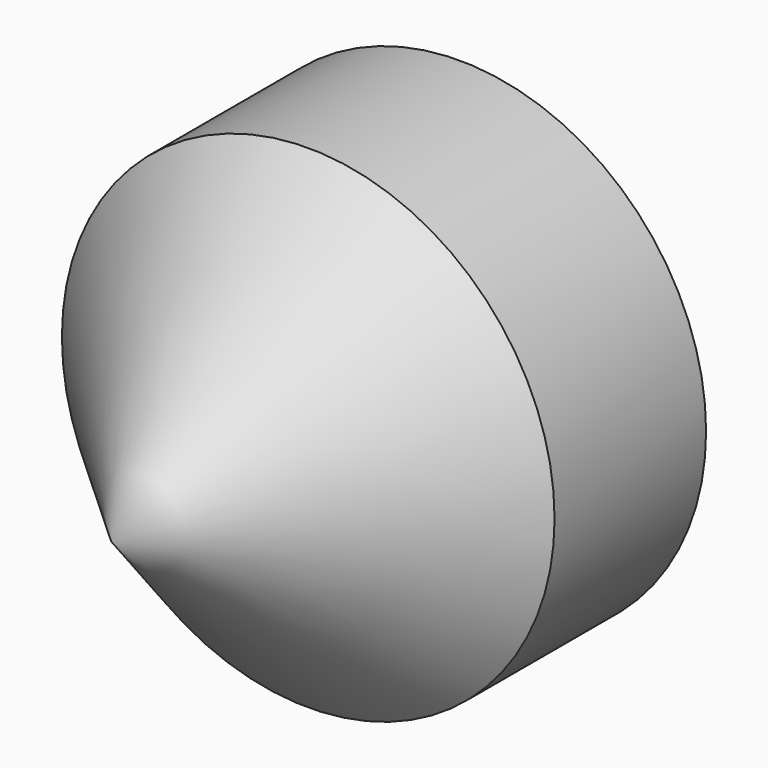
from build123d import *

# Parameters (mm, degrees)
F0_R     = 57.15
F1_DEPTH = 101.092
F2_SIZE  = 57.15
F3_T     = -2.54


with BuildPart() as f1:
    # F0 (on Front) → F1 (new body)
    with BuildSketch(Plane.XZ):
        Circle(F0_R)
    extrude(amount=F1_DEPTH)

    # F2
    f2_edges = [f1.edges().sort_by_distance(p)[0] for p in [
        (-57.15, -101.092, 0),
    ]]
    chamfer(f2_edges, length=F2_SIZE)

    # F3
    f3_openings = [f1.faces().sort_by_distance(p)[0] for p in [
        (0, 0, 0),
    ]]
    offset(amount=F3_T, openings=f3_openings)


solid = f1.part
